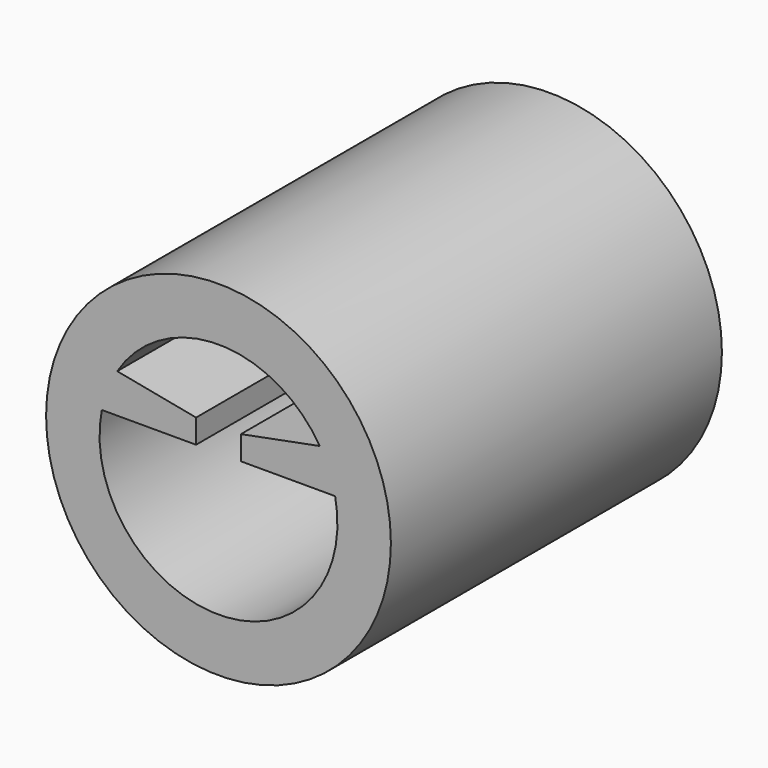
from build123d import *

# Parameters (mm, degrees)
F0_R     = 5
F1_DEPTH = 12


with BuildPart() as f1:
    # F0 (on Front) → F1 (new body)
    with BuildSketch(Plane.XZ):
        Circle(F0_R)
        with BuildLine():
            Line((0.65041, 1.371258), (0.65041, 0.676339))
            Line((0.65041, 0.676339), (3.383056, 0.676339))
            ThreePointArc((3.383056, 0.676339), (0, -3.45), (-3.383056, 0.676339))
            Line((-3.383056, 0.676339), (-0.65041, 0.676339))
            Line((-0.65041, 0.676339), (-0.65041, 1.371258))
            Line((-0.65041, 1.371258), (-2.936759, 1.810509))
            ThreePointArc((-2.936759, 1.810509), (0, 3.45), (2.936759, 1.810509))
            Line((2.936759, 1.810509), (0.65041, 1.371258))
        make_face(mode=Mode.SUBTRACT)
    extrude(amount=F1_DEPTH)


solid = f1.part
